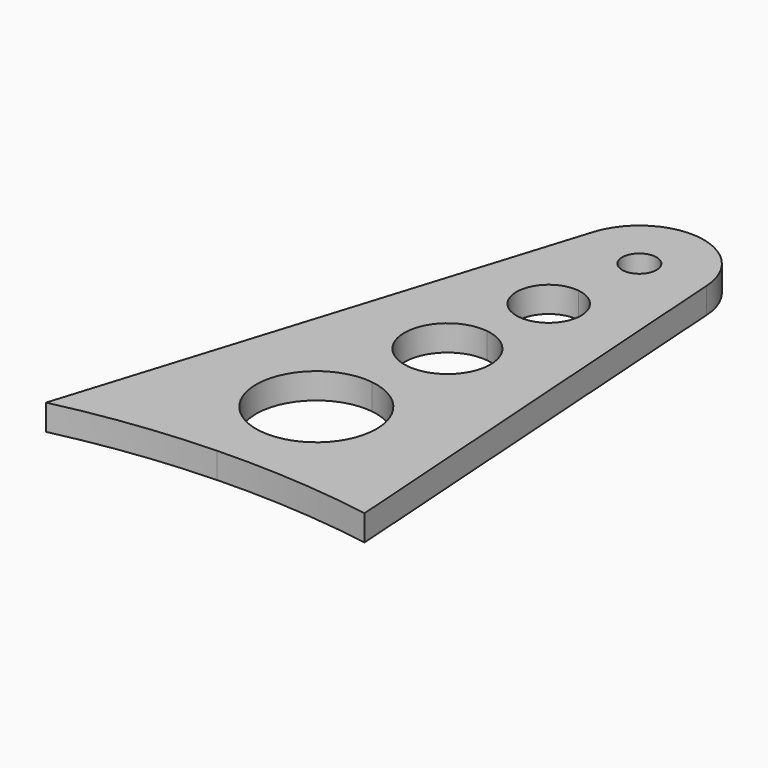
from build123d import *

# Parameters (mm, degrees)
F1_DEPTH = 6


with BuildPart() as f1:
    # F0 (on Top) → F1 (new body)
    with BuildSketch(Plane.XY):
        with BuildLine():
            ThreePointArc((-0.524037, -3.965525), (2.636651, -3.008002), (4, 0))
            ThreePointArc((4, 0), (-2.636651, 3.008002), (-0.524037, -3.965525))
        make_face()
        with BuildLine():
            ThreePointArc((-50, -110), (-32.075898, -106.82234), (-13.928128, -105.397782))
            ThreePointArc((-13.928128, -105.397782), (4.272256, -105.739751), (22.353704, -107.845026))
            Line((22.353704, -107.845026), (14.980582, 0.76299))
            ThreePointArc((14.980582, 0.76299), (2.035325, 14.861274), (-14.223815, 4.762676))
            Line((-14.223815, 4.762676), (-50, -110))
        make_face()
        with BuildLine():
            ThreePointArc((-12.487026, -94.492589), (-24.532233, -78.779123), (-8.818768, -66.733917))
            ThreePointArc((-8.818768, -66.733917), (-0.124891, -71.384976), (3.347103, -80.613253))
            ThreePointArc((3.347103, -80.613253), (-1.42462, -91.141259), (-12.487026, -94.492589))
        make_face(mode=Mode.SUBTRACT)
        with BuildLine():
            ThreePointArc((-7.639684, -57.811486), (-16.243403, -46.587583), (-5.0195, -37.983864))
            ThreePointArc((-5.0195, -37.983864), (1.190412, -41.306049), (3.670408, -47.897675))
            ThreePointArc((3.670408, -47.897675), (0.262034, -55.417679), (-7.639684, -57.811486))
        make_face(mode=Mode.SUBTRACT)
        with BuildLine():
            ThreePointArc((-3.971426, -30.052814), (-10.424215, -21.634886), (-2.006287, -15.182097))
            ThreePointArc((-2.006287, -15.182097), (2.651147, -17.673736), (4.511144, -22.617456))
            ThreePointArc((4.511144, -22.617456), (1.954863, -28.257459), (-3.971426, -30.052814))
        make_face(mode=Mode.SUBTRACT)
        with BuildLine():
            ThreePointArc((-0.524037, -3.965525), (-2.636651, 3.008002), (4, 0))
            ThreePointArc((4, 0), (2.636651, -3.008002), (-0.524037, -3.965525))
        make_face(mode=Mode.SUBTRACT)
    extrude(amount=F1_DEPTH)


solid = f1.part
